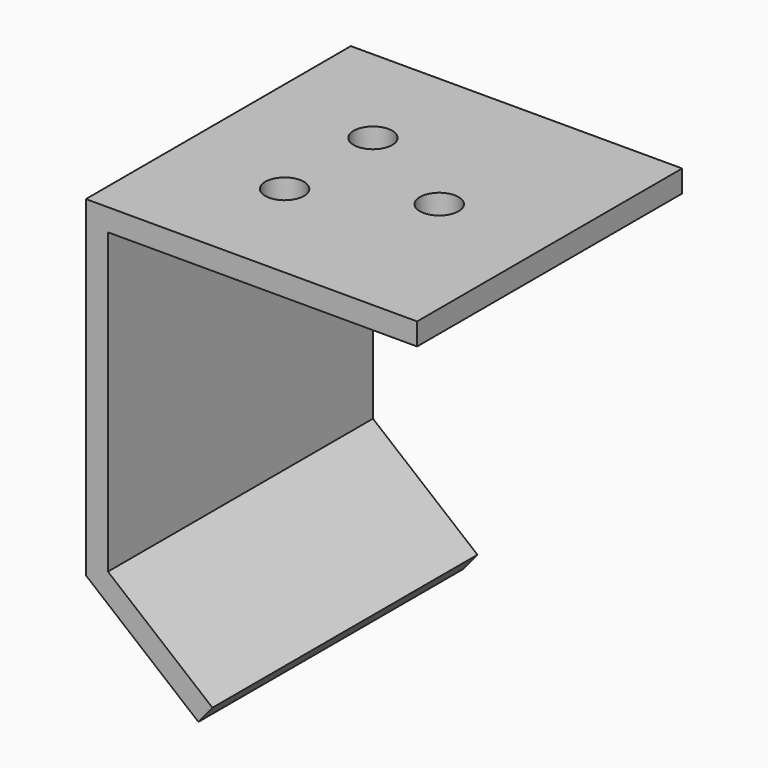
from build123d import *

# Parameters (mm, degrees)
F1_DEPTH = 30
F3_D     = 3.5
F3_DEPTH = 5


with BuildPart() as f1:
    # F0 (on Front) → F1 (new body)
    with BuildSketch(Plane.XZ):
        Polygon((27.040993, 12.364779), (-2.959007, 12.364779), (-2.959007, -17.635221), (7.234091, -26.008121), (8.50357, -24.462669), (-0.959007, -16.689839), (-0.959007, 10.364779), (27.040993, 10.364779), align=None)
    extrude(amount=F1_DEPTH)

    # F3
    with Locations(Plane.XY.offset(12.364779)):
        with Locations((7.040993, -10), (17.040993, -15), (7.040993, -20)):
            Hole(F3_D / 2, depth=F3_DEPTH)


solid = f1.part
